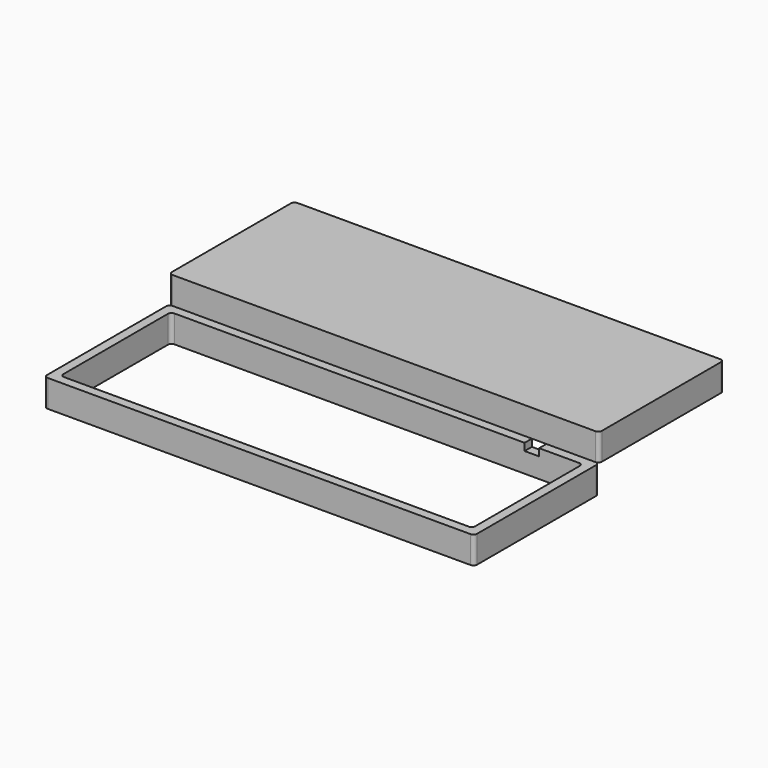
from build123d import *

# Parameters (mm, degrees)
EXTRUDE002_DEPTH       = 15
BOX_W                  = 8
BOX_H                  = 8
BOX_DEPTH              = 4
EXTRUDE_DEPTH          = 15
EXTRUDE001_DEPTH       = 15
CUT001_PLACEMENT_ANGLE = 180


with BuildPart() as extrude002:
    # Rectangle001 → Extrude002 (new body)
    with BuildSketch(Plane.XY):
        with BuildLine():
            Line((2, 0), (235, 0))
            ThreePointArc((235, 0), (236.414214, 0.585786), (237, 2))
            Line((237, 2), (237, 84))
            ThreePointArc((237, 84), (236.414214, 85.414214), (235, 86))
            Line((235, 86), (2, 86))
            ThreePointArc((2, 86), (0.585786, 85.414214), (0, 84))
            Line((0, 84), (0, 2))
            ThreePointArc((0, 2), (0.585786, 0.585786), (2, 0))
        make_face()
    extrude(amount=EXTRUDE002_DEPTH)


with BuildPart() as cube:
    # Box → Box (new body)
    with BuildSketch(Plane(origin=(200, 0, 0), x_dir=(1, 0, 0), z_dir=(0, 0, 1))):
        with Locations((4, 4)):
            Rectangle(BOX_W, BOX_H)
    extrude(amount=BOX_DEPTH)


with BuildPart() as extrude_body:
    # Rectangle → Extrude (new body)
    with BuildSketch(Plane(origin=(5, 5, 0), x_dir=(1, 0, 0), z_dir=(0, 0, 1))):
        with BuildLine():
            Line((2, 0), (225, 0))
            ThreePointArc((225, 0), (226.414214, 0.585786), (227, 2))
            Line((227, 2), (227, 74))
            ThreePointArc((227, 74), (226.414214, 75.414214), (225, 76))
            Line((225, 76), (2, 76))
            ThreePointArc((2, 76), (0.585786, 75.414214), (0, 74))
            Line((0, 74), (0, 2))
            ThreePointArc((0, 2), (0.585786, 0.585786), (2, 0))
        make_face()
    extrude(amount=EXTRUDE_DEPTH)


with BuildPart() as cut001:
    # Rectangle001 → Extrude001 (new body)
    with BuildSketch(Plane.XY):
        with BuildLine():
            Line((2, 0), (235, 0))
            ThreePointArc((235, 0), (236.414214, 0.585786), (237, 2))
            Line((237, 2), (237, 84))
            ThreePointArc((237, 84), (236.414214, 85.414214), (235, 86))
            Line((235, 86), (2, 86))
            ThreePointArc((2, 86), (0.585786, 85.414214), (0, 84))
            Line((0, 84), (0, 2))
            ThreePointArc((0, 2), (0.585786, 0.585786), (2, 0))
        make_face()
    extrude(amount=EXTRUDE001_DEPTH)

    # Cut: cut Extrude body
    add(extrude_body.part, mode=Mode.SUBTRACT)

    # Cut001: cut Cube
    add(cube.part, mode=Mode.SUBTRACT)


with BuildPart() as cut001_1:
    # Cut001 placement: moved
    add(cut001.part.rotate(Axis((0, 0, 0), (1, 0, 0)), CUT001_PLACEMENT_ANGLE))


solid = Compound([extrude002.part, cut001_1.part])
